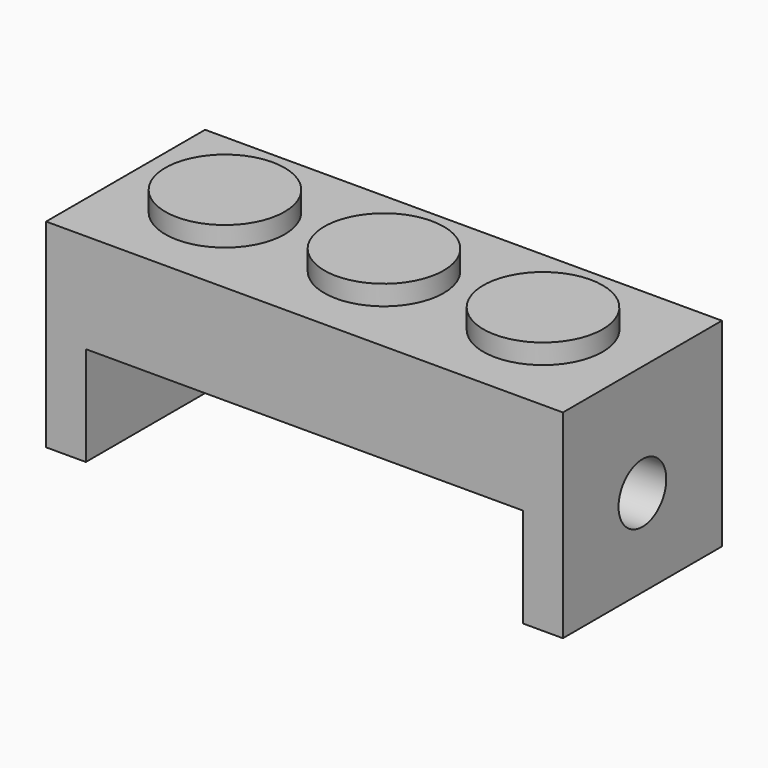
from build123d import *

# Parameters (mm, degrees)
F0_W          = 12.7
F0_H          = 12.7
F1_DEPTH      = 16.51
F1_DEPTH_BACK = 16.51
F2_W          = 27.94
F2_H          = 6.35
F3_DEPTH      = 25.4
F5_DEPTH      = 27.94
F7_D          = 3.81
F8_R          = 3.81
F9_DEPTH      = 1.27


with BuildPart() as f1:
    # F0 (on Right) → F1 (new body, two sides)
    with BuildSketch(Plane.YZ) as f1_sk:
        Rectangle(F0_W, F0_H)
    extrude(amount=F1_DEPTH)
    extrude(f1_sk.sketch, amount=-F1_DEPTH_BACK)

    # F2 (on face) → F3 (cut)
    with BuildSketch(Plane.XZ.offset(6.35)):
        with Locations((0, -3.175)):
            Rectangle(F2_W, F2_H)
    extrude(amount=-F3_DEPTH, mode=Mode.SUBTRACT)

    # F4 (on face) → F5 (cut)
    with BuildSketch(Plane(origin=(13.97, 0, 0), x_dir=(0, -1, 0), z_dir=(-1, 0, 0))):
        with BuildLine():
            Line((-6.35, 0), (6.35, 0))
            ThreePointArc((6.35, 0), (0, 2.430635), (-6.35, 0))
        make_face()
    extrude(amount=F5_DEPTH, mode=Mode.SUBTRACT)

    # F7 (through all)
    with Locations(Plane.YZ.offset(16.51)):
        with Locations((0, -0.762)):
            Hole(F7_D / 2)

    # F8 (on face) → F9 (join)
    with BuildSketch(Plane.XY.offset(6.35)):
        with Locations((-10.16, 0)):
            Circle(F8_R)
        Circle(F8_R)
        with Locations((10.16, 0)):
            Circle(F8_R)
    extrude(amount=F9_DEPTH)


solid = f1.part
